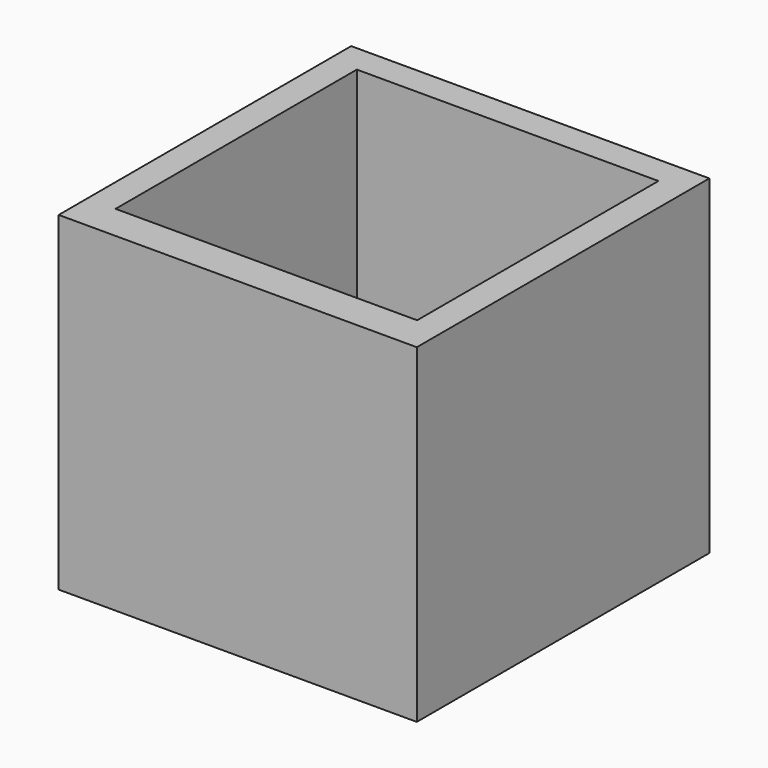
from build123d import *

# Parameters (mm, degrees)
F1_DEPTH = 203.2
F2_W     = 241.3
F2_H     = 246.338792
F3_DEPTH = 19.05


with BuildPart() as f1:
    # F0 (on Top) → F1 (new body)
    with BuildSketch(Plane.XY):
        Polygon((-107.106747, -109.186523), (-107.106747, -9.808976), (-126.156747, -9.808976), (-126.156747, -133.275315), (115.143253, -133.275315), (115.143253, -7.586523), (96.093253, -7.586523), (96.093253, -109.186523), align=None)
        Polygon((-107.106747, -9.808976), (-107.106747, 94.013477), (-2.590392, 94.013477), (-2.590392, 113.063477), (-126.156747, 113.063477), (-126.156747, -9.808976), align=None)
        Polygon((-2.590392, 113.063477), (-2.590392, 94.013477), (96.093253, 94.013477), (96.093253, -7.586523), (115.143253, -7.586523), (115.143253, 113.063477), align=None)
    extrude(amount=F1_DEPTH)

    # F2 (on face) → F3 (join)
    with BuildSketch(Plane(origin=(0, 0, 0), x_dir=(1, 0, 0), z_dir=(0, 0, -1))):
        with Locations((-5.506747, 10.105919)):
            Rectangle(F2_W, F2_H)
    extrude(amount=F3_DEPTH)


solid = f1.part
